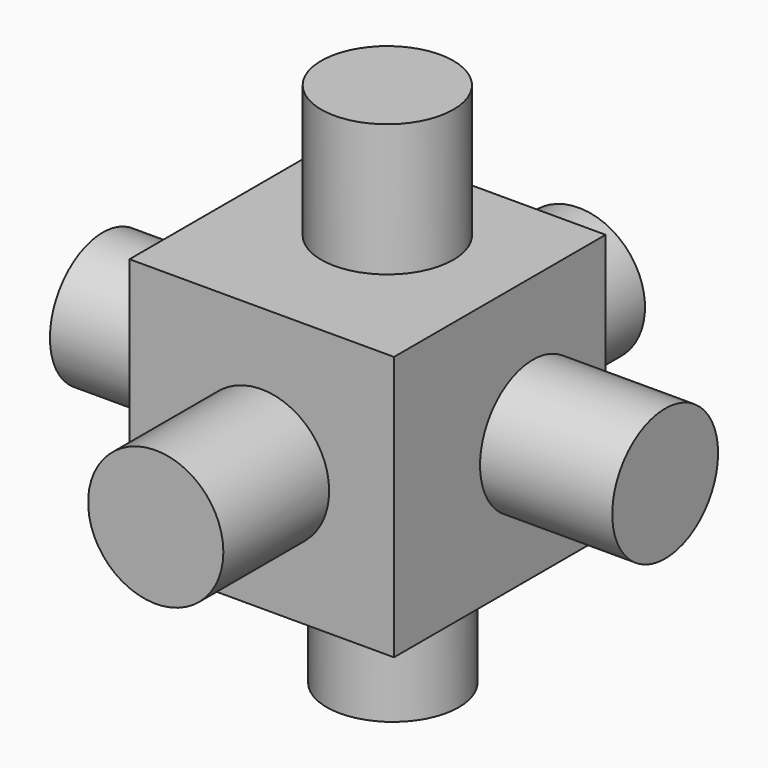
from build123d import *

# Parameters (mm, degrees)
F1_DEPTH  = 25.4
F3_R      = 6.35
F4_DEPTH  = 12.7
F2_R      = 6.493715
F5_DEPTH  = 12.7
F6_R      = 6.35
F7_DEPTH  = 12.7
F8_R      = 6.35
F9_DEPTH  = 12.7
F10_R     = 6.35
F11_DEPTH = 12.7
F12_R     = 6.35
F13_DEPTH = 12.7


with BuildPart() as f1:
    # F0 (on Front) → F1 (new body)
    with BuildSketch(Plane.XZ):
        Polygon((12.721216, 13.360342), (-12.678784, 13.360342), (-12.678784, 11.51153), (-12.678784, -12.039658), (12.721216, -12.039658), align=None)
    extrude(amount=F1_DEPTH)

    # F3 (on face) → F4 (join)
    with BuildSketch(Plane(origin=(0, 0, 0), x_dir=(-1, 0, 0), z_dir=(0, 1, 0))):
        Circle(F3_R)
    extrude(amount=F4_DEPTH)

    # F2 (on face) → F5 (join)
    with BuildSketch(Plane.XZ.offset(25.4)):
        Circle(F2_R)
    extrude(amount=F5_DEPTH)


with BuildPart() as f7:
    # F6 (on face) → F7 (new body)
    with BuildSketch(Plane.XY.offset(13.360342)):
        with Locations((0, -10.299483)):
            Circle(F6_R)
    extrude(amount=F7_DEPTH)


with BuildPart() as f9:
    # F8 (on face) → F9 (new body)
    with BuildSketch(Plane(origin=(-12.678784, 0, 0), x_dir=(0, -1, 0), z_dir=(-1, 0, 0))):
        with Locations((12.728129, 0)):
            Circle(F8_R)
    extrude(amount=F9_DEPTH)


with BuildPart() as f11:
    # F10 (on face) → F11 (new body)
    with BuildSketch(Plane(origin=(0, 0, -12.039658), x_dir=(1, 0, 0), z_dir=(0, 0, -1))):
        with Locations((0, 9.640794)):
            Circle(F10_R)
    extrude(amount=F11_DEPTH)


with BuildPart() as f13:
    # F12 (on face) → F13 (new body)
    with BuildSketch(Plane.YZ.offset(12.721216)):
        with Locations((-8.71964, 0)):
            Circle(F12_R)
    extrude(amount=F13_DEPTH)


solid = Compound([f1.part, f7.part, f9.part, f11.part, f13.part])
